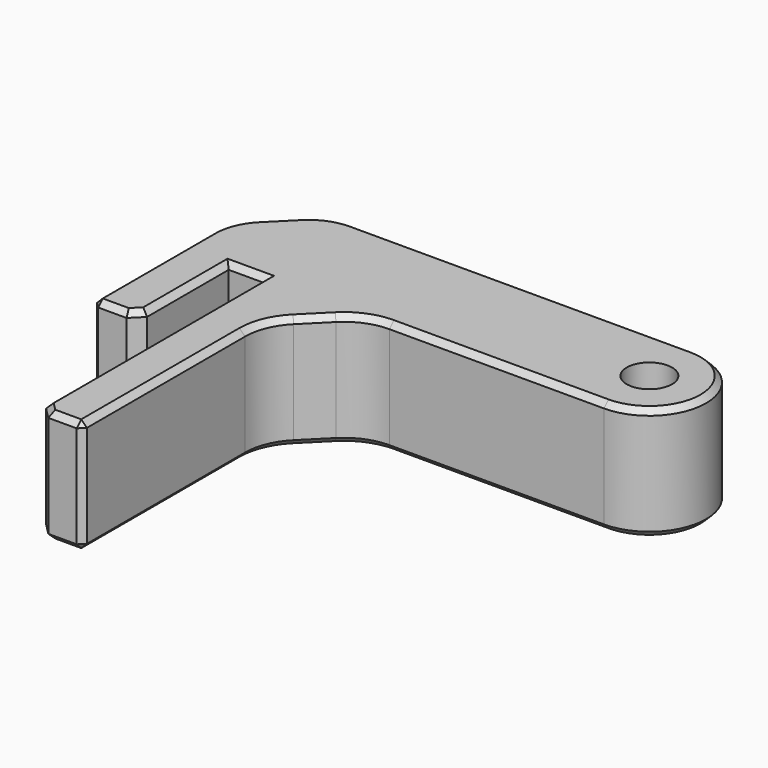
from build123d import *

# Parameters (mm, degrees)
F0_R     = 2
F1_DEPTH = 10
F2_SIZE  = 5
F3_R     = 5
F4_SIZE  = 1
F5_SIZE  = 0.5


with BuildPart() as f1:
    # F0 (on Top) → F1 (new body)
    with BuildSketch(Plane.XY):
        with BuildLine():
            Line((0, 20), (0, 0))
            Line((0, 0), (4, 0))
            Line((4, 0), (4, 10))
            Line((4, 10), (7.1, 10))
            Line((7.1, 10), (7.1, -15))
            Line((7.1, -15), (11.1, -15))
            Line((11.1, -15), (11.1, 10))
            Line((11.1, 10), (37.1, 10))
            ThreePointArc((37.1, 10), (42.1, 15), (37.1, 20))
            Line((37.1, 20), (0, 20))
        make_face()
        with Locations((37.1, 15)):
            Circle(F0_R, mode=Mode.SUBTRACT)
    extrude(amount=F1_DEPTH)

    # F2
    f2_edges = [f1.edges().sort_by_distance(p)[0] for p in [
        (0, 20, 5),
        (11.1, 10, 5),
    ]]
    chamfer(f2_edges, length=F2_SIZE)

    # F3
    f3_edges = [f1.edges().sort_by_distance(p)[0] for p in [
        (0, 15, 5),
        (5, 20, 5),
        (16.1, 10, 5),
        (11.1, 5, 5),
    ]]
    fillet(f3_edges, radius=F3_R)

    # F4
    f4_edges = [f1.edges().sort_by_distance(p)[0] for p in [
        (4, 0, 5),
        (7.1, -15, 5),
    ]]
    chamfer(f4_edges, length=F4_SIZE)

    # F5
    f5_edges = [f1.edges().sort_by_distance(p)[0] for p in [
        (0, 0, 5),
        (11.1, -15, 5),
        (27.635534, 10, 10),
        (27.635534, 10, 0),
        (1.5, 0, 10),
        (3.5, 0.5, 10),
        (4, 5.5, 10),
        (5.55, 10, 10),
        (7.1, -2, 10),
        (9.6, -15, 10),
        (7.6, -14.5, 10),
        (1.5, 0, 0),
        (3.5, 0.5, 0),
        (4, 5.5, 0),
        (5.55, 10, 0),
        (7.1, -2, 0),
        (7.6, -14.5, 0),
        (9.6, -15, 0),
    ]]
    chamfer(f5_edges, length=F5_SIZE)


solid = f1.part
